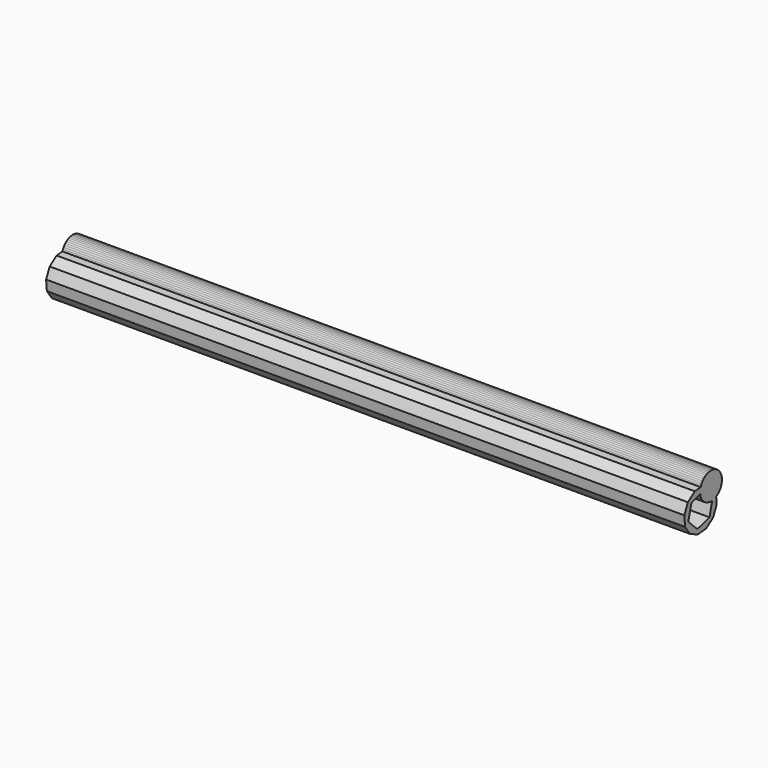
from build123d import *

# Parameters (mm, degrees)
F1_DEPTH = 781.05


with BuildPart() as f1:
    # F0 (on Right) → F1 (new body)
    with BuildSketch(Plane.YZ):
        Polygon((-57.224485, 18.603526), (-49.726797, 7.954637), (-37.909164, 2.481273), (-24.938112, 3.650017), (-14.289223, 11.147705), (-8.815859, 22.965337), (-9.620451, 31.894936), (-11.24866, 31.116622), (-13.236551, 30.457316), (-15.291399, 30.052357), (-15.607873, 30.030512), (-19.835498, 13.723182), (-38.451873, 8.572227), (-52.220918, 22.119002), (-47.373589, 40.816733), (-33.998333, 44.517526), (-34.120155, 45.436821), (-34.1329, 47.531154), (-33.883056, 49.610571), (-33.374561, 51.642276), (-33.354722, 51.693289), (-42.270976, 50.889899), (-52.919864, 43.392211), (-58.393229, 31.574578), align=None)
        Polygon((-17.3808, 29.908133), (-15.607873, 30.030512), (-14.988169, 32.420913), (-28.757215, 45.967688), (-33.998333, 44.517526), (-33.845021, 43.3606), (-33.311836, 41.335233), (-32.52901, 39.392663), (-31.508889, 37.563525), (-30.26756, 35.876666), (-28.824599, 34.358687), (-27.202763, 33.033529), (-25.42763, 31.922091), (-23.527194, 31.041899), (-21.531426, 30.406836), (-19.471801, 30.026917), align=None)
        Polygon((-32.615436, 53.59423), (-33.354722, 51.693289), (-29.299923, 52.058643), (-17.482291, 46.585278), (-9.984603, 35.936389), (-9.620451, 31.894936), (-9.359077, 32.019878), (-7.597603, 33.152839), (-5.992015, 34.497638), (-4.567636, 36.033066), (-3.346929, 37.734908), (-2.349145, 39.576327), (-1.59002, 41.52828), (-1.081526, 43.559986), (-0.831681, 45.639402), (-0.844426, 47.733735), (-1.119561, 49.809957), (-1.652745, 51.835323), (-2.435571, 53.777893), (-3.455692, 55.607031), (-4.697022, 57.293891), (-6.139982, 58.811869), (-7.761818, 60.137027), (-9.536951, 61.248466), (-11.437388, 62.128657), (-13.433155, 62.76372), (-15.492781, 63.14364), (-17.583781, 63.262424), (-19.673182, 63.118199), (-21.72803, 62.713241), (-23.715921, 62.053935), (-25.605504, 61.150679), (-27.366979, 60.017718), (-28.972566, 58.672919), (-30.396945, 57.137491), (-31.617652, 55.435648), align=None)
        Polygon((-29.299923, 52.058643), (-33.354722, 51.693289), (-33.374561, 51.642276), (-33.883056, 49.610571), (-34.1329, 47.531154), (-34.120155, 45.436821), (-33.998333, 44.517526), (-28.757215, 45.967688), (-14.988169, 32.420913), (-15.607873, 30.030512), (-15.291399, 30.052357), (-13.236551, 30.457316), (-11.24866, 31.116622), (-9.620451, 31.894936), (-9.984603, 35.936389), (-17.482291, 46.585278), align=None)
    extrude(amount=-F1_DEPTH)


solid = f1.part
